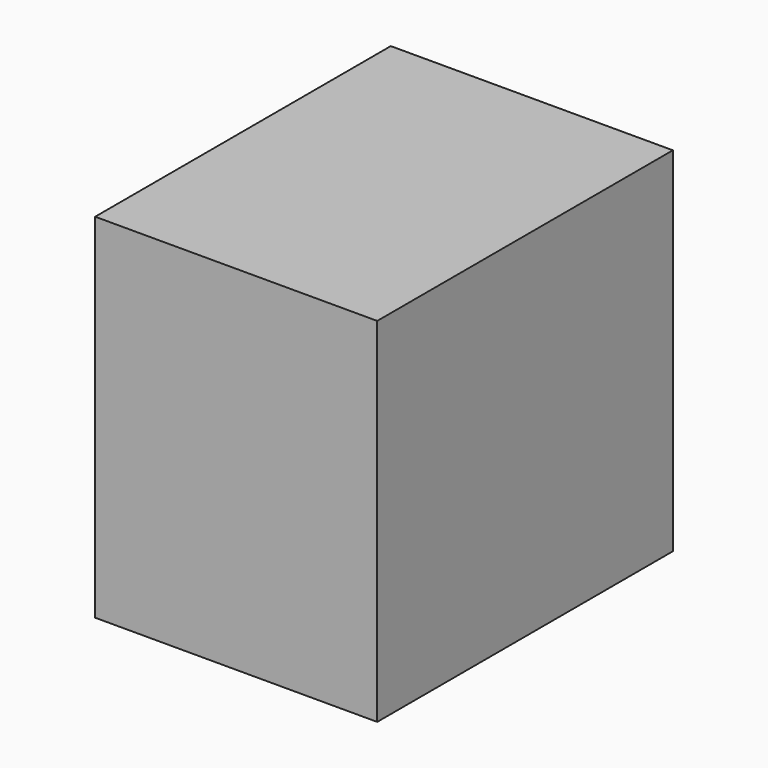
from build123d import *

# Parameters (mm, degrees)
F0_W          = 85.8461000025
F0_H          = 112.4589964747
F1_DEPTH      = 56.134
F1_DEPTH_BACK = 51.308


with BuildPart() as f1:
    # F0 (on Top) → F1 (new body, two sides)
    with BuildSketch(Plane.XY) as f1_sk:
        with Locations((2.8627943248, 1.3927593827)):
            Rectangle(F0_W, F0_H)
    extrude(amount=-F1_DEPTH)
    extrude(f1_sk.sketch, amount=F1_DEPTH_BACK)


solid = f1.part
